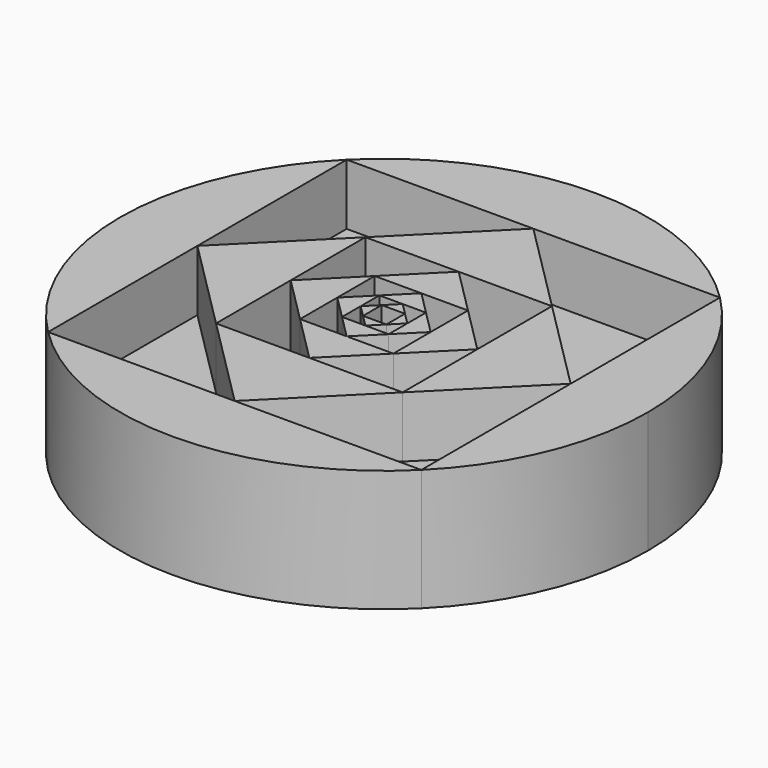
from build123d import *

# Parameters (mm, degrees)
F1_DEPTH  = 25.4
F2_DEPTH  = 12.7
F3_DEPTH  = 25.4
F4_DEPTH  = 12.7
F5_DEPTH  = 25.4
F6_DEPTH  = 12.7
F7_DEPTH  = 25.4
F8_DEPTH  = 12.7
F9_DEPTH  = 25.4
F11_DEPTH = 77.9


with BuildPart() as f1:
    # F0 (on Top) → F1 (new body)
    with BuildSketch(Plane.XY):
        Polygon((38.90394, 38.90394), (0, 77.807881), (-38.90394, 38.90394), (0, 38.90394), align=None)
        Polygon((-38.90394, 0), (-38.90394, 38.90394), (-77.807881, 0), (-38.90394, -38.90394), align=None)
        Polygon((0, -38.90394), (-38.90394, -38.90394), (0, -77.807881), (38.90394, -38.90394), align=None)
        Polygon((77.807881, 0), (38.90394, 38.90394), (38.90394, 0), (38.90394, -38.90394), align=None)
    extrude(amount=F1_DEPTH)


with BuildPart() as f2:
    # F0 (on Top) → F2 (new body)
    with BuildSketch(Plane.XY):
        Polygon((0, 38.90394), (-38.90394, 38.90394), (-38.90394, 0), (-19.45197, 19.45197), align=None)
        Polygon((-19.45197, -19.45197), (-38.90394, 0), (-38.90394, -38.90394), (0, -38.90394), align=None)
        Polygon((38.90394, -38.90394), (38.90394, 0), (19.45197, -19.45197), (0, -38.90394), align=None)
        Polygon((38.90394, 0), (38.90394, 38.90394), (0, 38.90394), (19.45197, 19.45197), align=None)
    extrude(amount=F2_DEPTH)


with BuildPart() as f3:
    # F0 (on Top) → F3 (new body)
    with BuildSketch(Plane.XY):
        Polygon((19.45197, 19.45197), (0, 38.90394), (-19.45197, 19.45197), (0, 19.45197), align=None)
        Polygon((-19.45197, 19.45197), (-38.90394, 0), (-19.45197, -19.45197), (-19.45197, 0), align=None)
        Polygon((19.45197, -19.45197), (38.90394, 0), (19.45197, 19.45197), (19.45197, 0), align=None)
        Polygon((0, -19.45197), (-19.45197, -19.45197), (0, -38.90394), (19.45197, -19.45197), align=None)
    extrude(amount=F3_DEPTH)


with BuildPart() as f4:
    # F0 (on Top) → F4 (new body)
    with BuildSketch(Plane.XY):
        Polygon((0, 19.45197), (-19.45197, 19.45197), (-19.45197, 0), (-9.725985, 9.725985), align=None)
        Polygon((-19.45197, 0), (-19.45197, -19.45197), (0, -19.45197), (-9.725985, -9.725985), align=None)
        Polygon((0, -19.45197), (19.45197, -19.45197), (19.45197, 0), (9.725985, -9.725985), align=None)
        Polygon((19.45197, 0), (19.45197, 19.45197), (0, 19.45197), (9.725985, 9.725985), align=None)
    extrude(amount=F4_DEPTH)


with BuildPart() as f5:
    # F0 (on Top) → F5 (new body)
    with BuildSketch(Plane.XY):
        Polygon((9.725985, 9.725985), (0, 19.45197), (-9.725985, 9.725985), (0, 9.725985), align=None)
        Polygon((-9.725985, 9.725985), (-19.45197, 0), (-9.725985, -9.725985), (-9.725985, 0), align=None)
        Polygon((9.725985, -9.725985), (19.45197, 0), (9.725985, 9.725985), (9.725985, 0), align=None)
        Polygon((-9.725985, -9.725985), (0, -19.45197), (9.725985, -9.725985), (0, -9.725985), align=None)
    extrude(amount=F5_DEPTH)


with BuildPart() as f6:
    # F0 (on Top) → F6 (new body)
    with BuildSketch(Plane.XY):
        Polygon((0, 9.725985), (-9.725985, 9.725985), (-9.725985, 0), (-4.862993, 4.862993), align=None)
        Polygon((-9.725985, 0), (-9.725985, -9.725985), (0, -9.725985), (-4.862993, -4.862993), align=None)
        Polygon((0, -9.725985), (9.725985, -9.725985), (9.725985, 0), (4.862993, -4.862993), align=None)
        Polygon((9.725985, 0), (9.725985, 9.725985), (0, 9.725985), (4.862993, 4.862993), align=None)
    extrude(amount=F6_DEPTH)


with BuildPart() as f7:
    # F0 (on Top) → F7 (new body)
    with BuildSketch(Plane.XY):
        Polygon((4.862993, 4.862993), (0, 9.725985), (-4.862993, 4.862993), (0, 4.862993), align=None)
        Polygon((-4.862993, 4.862993), (-9.725985, 0), (-4.862993, -4.862993), (-4.862993, 0), align=None)
        Polygon((-4.862993, -4.862993), (0, -9.725985), (4.862993, -4.862993), (0, -4.862993), align=None)
        Polygon((4.862993, -4.862993), (9.725985, 0), (4.862993, 4.862993), (4.862993, 0), align=None)
    extrude(amount=F7_DEPTH)


with BuildPart() as f8:
    # F0 (on Top) → F8 (new body)
    with BuildSketch(Plane.XY):
        Polygon((0, 4.862993), (-4.862993, 4.862993), (-4.862993, 0), (-2.431496, 2.431496), align=None)
        Polygon((-4.862993, 0), (-4.862993, -4.862993), (0, -4.862993), (-2.431496, -2.431496), align=None)
        Polygon((0, -4.862993), (4.862993, -4.862993), (4.862993, 0), (2.431496, -2.431496), align=None)
        Polygon((4.862993, 0), (4.862993, 4.862993), (0, 4.862993), (2.431496, 2.431496), align=None)
    extrude(amount=F8_DEPTH)


with BuildPart() as f9:
    # F0 (on Top) → F9 (new body)
    with BuildSketch(Plane.XY):
        Polygon((2.431496, 2.431496), (0, 4.862993), (-2.431496, 2.431496), align=None)
        Polygon((-2.431496, 2.431496), (-4.862993, 0), (-2.431496, -2.431496), align=None)
        Polygon((-2.431496, -2.431496), (0, -4.862993), (2.431496, -2.431496), align=None)
        Polygon((2.431496, -2.431496), (4.862993, 0), (2.431496, 2.431496), align=None)
    extrude(amount=F9_DEPTH)


with BuildPart() as f11_tool:
    # F10 (on face) → F11 (new body)
    with BuildSketch(Plane(origin=(0, 0, 0), x_dir=(1, 0, 0), z_dir=(0, 0, -1))):
        with BuildLine():
            Line((-38.90394, -38.90394), (-38.90394, 38.90394))
            ThreePointArc((-38.90394, 38.90394), (-55.01848, 0), (-38.90394, -38.90394))
        make_face()
        with BuildLine():
            ThreePointArc((-38.90394, -38.90394), (21.054661, -50.830448), (55.01848, 0))
            ThreePointArc((55.01848, 0), (21.054661, 50.830448), (-38.90394, 38.90394))
            Line((-38.90394, 38.90394), (-38.90394, -38.90394))
        make_face()
    extrude(amount=-F11_DEPTH)


with BuildPart() as f1_1:
    add(f1.part)

    # F11: intersect by f11_tool
    add(f11_tool.part, mode=Mode.INTERSECT)


with BuildPart() as f2_1:
    add(f2.part)

    # F11: intersect by f11_tool
    add(f11_tool.part, mode=Mode.INTERSECT)


with BuildPart() as f3_1:
    add(f3.part)

    # F11: intersect by f11_tool
    add(f11_tool.part, mode=Mode.INTERSECT)


with BuildPart() as f4_1:
    add(f4.part)

    # F11: intersect by f11_tool
    add(f11_tool.part, mode=Mode.INTERSECT)


with BuildPart() as f5_1:
    add(f5.part)

    # F11: intersect by f11_tool
    add(f11_tool.part, mode=Mode.INTERSECT)


with BuildPart() as f6_1:
    add(f6.part)

    # F11: intersect by f11_tool
    add(f11_tool.part, mode=Mode.INTERSECT)


with BuildPart() as f7_1:
    add(f7.part)

    # F11: intersect by f11_tool
    add(f11_tool.part, mode=Mode.INTERSECT)


with BuildPart() as f8_1:
    add(f8.part)

    # F11: intersect by f11_tool
    add(f11_tool.part, mode=Mode.INTERSECT)


with BuildPart() as f9_1:
    add(f9.part)

    # F11: intersect by f11_tool
    add(f11_tool.part, mode=Mode.INTERSECT)


solid = Compound([f1_1.part, f2_1.part, f3_1.part, f4_1.part, f5_1.part, f6_1.part, f7_1.part, f8_1.part, f9_1.part])
